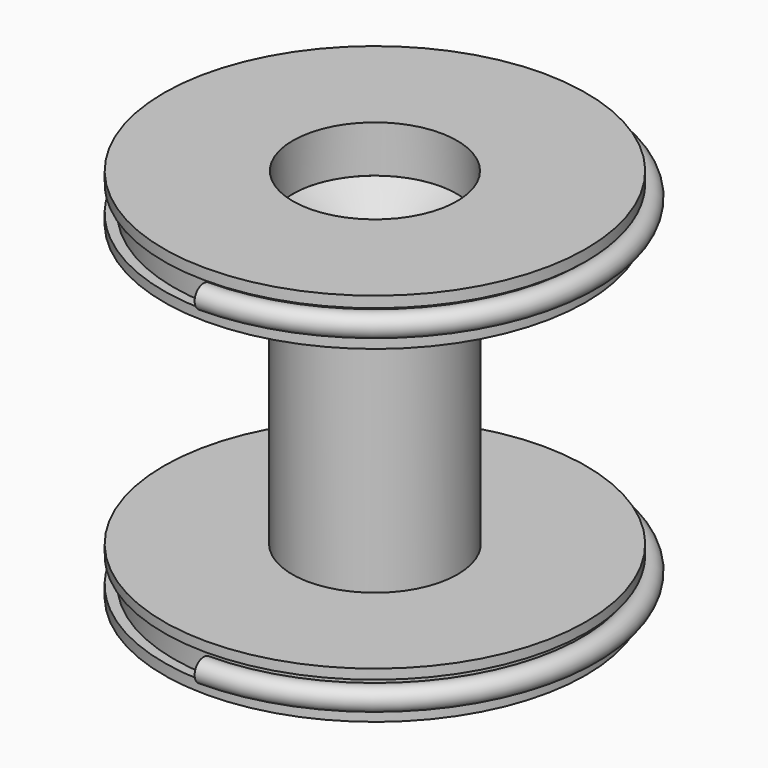
from build123d import *

# Parameters (mm, degrees)
F0_R        = 9
F1_DEPTH    = 2
F2_W        = 0.9795567021
F2_H        = 1.1131323408
F6_R        = 0.4823630939
F9_R        = 3.5274543141
F10_DEPTH   = 6
F13_D       = 7
F13_DEPTH   = 2
F13_TIP     = 2.1030121666
F13_2_D     = 7
F13_2_DEPTH = 2
F13_2_TIP   = 2.1030121666


with BuildPart() as f1:
    # F0 (on Top) → F1 (new body)
    with BuildSketch(Plane.XY):
        Circle(F0_R)
    extrude(amount=F1_DEPTH)

    # F5: sweep along a path in F4
    with BuildLine(Plane.XY.offset(1)) as f5_path:
        CenterArc((0, 0), 9, 0, 360)
    # F2 (on Right) → F5 (sweep, cut)
    with BuildSketch(Plane.YZ):
        with Locations((9.0710739605, 0.9736432694)):
            Rectangle(F2_W, F2_H)
    sweep(path=f5_path.line, mode=Mode.SUBTRACT)

    # F13
    with Locations(Plane.XY.offset(2)):
        with Locations((0, 0)):
            Hole(F13_D / 2, depth=F13_DEPTH)
            with Locations((0, 0, -(F13_DEPTH + F13_TIP / 2))):  # 118° drill point
                Cone(0, F13_D / 2, F13_TIP, mode=Mode.SUBTRACT)


with BuildPart() as f8:
    # F8: sweep along a path in F7
    with BuildLine(Plane.XY.offset(1)) as f8_path:
        ThreePointArc((0, 9), (9, 0), (0, -9))
    # F6 (on Right) → F8 (sweep)
    with BuildSketch(Plane.YZ):
        with Locations((9.1285342351, 1.0148627916)):
            Circle(F6_R)
    sweep(path=f8_path.line)


with BuildPart() as f10:
    # F9 (on Top) → F10 (new body)
    with BuildSketch(Plane.XY):
        Circle(F9_R)
    extrude(amount=-F10_DEPTH)

    # F13#2
    with Locations(Plane.XY.offset(2)):
        with Locations((0, 0)):
            Hole(F13_2_D / 2, depth=F13_2_DEPTH)
            with Locations((0, 0, -(F13_2_DEPTH + F13_2_TIP / 2))):  # 118° drill point
                Cone(0, F13_2_D / 2, F13_2_TIP, mode=Mode.SUBTRACT)

    # F14: F10, F8, F1 across plane


with BuildPart() as f10_1:
    add(f10.part)
    add(f10.part.mirror(Plane(origin=(0, 0, -6), x_dir=(1, 0, 0), z_dir=(0, 0, -1))))
    add(f8.part.mirror(Plane(origin=(0, 0, -6), x_dir=(1, 0, 0), z_dir=(0, 0, -1))))
    add(f1.part.mirror(Plane(origin=(0, 0, -6), x_dir=(1, 0, 0), z_dir=(0, 0, -1))))


solid = Compound([f1.part, f8.part, f10_1.part])
